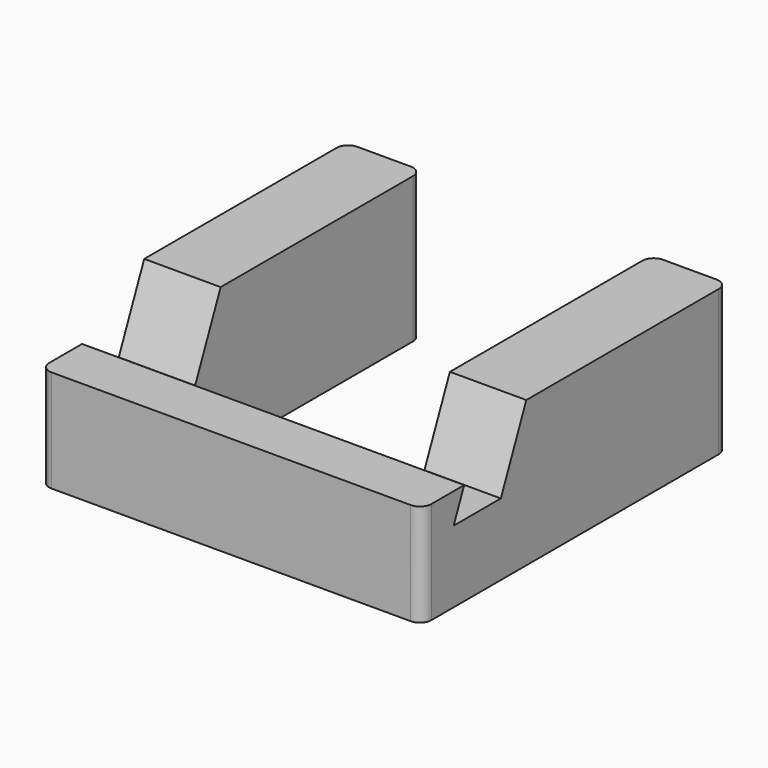
from build123d import *

# Parameters (mm, degrees)
F1_DEPTH = 38.09291
F3_DEPTH = 122.48907
F6_W     = 30.103382
F6_H     = 15.981055
F7_DEPTH = 76.09144


with BuildPart() as f1:
    # F0 (on Top) → F1 (new body)
    with BuildSketch(Plane.XY):
        with BuildLine():
            Line((-47.8804, 57.96845), (-61.8804, 57.96845))
            ThreePointArc((-61.8804, 57.96845), (-64.00172, 57.089771), (-64.8804, 54.96845))
            Line((-64.8804, 54.96845), (-64.8804, -39.03155))
            ThreePointArc((-64.8804, -39.03155), (-64.00172, -41.15287), (-61.8804, -42.03155))
            Line((-61.8804, -42.03155), (32.1196, -42.03155))
            ThreePointArc((32.1196, -42.03155), (34.240921, -41.15287), (35.1196, -39.03155))
            Line((35.1196, -39.03155), (35.1196, 54.96845))
            ThreePointArc((35.1196, 54.96845), (34.240921, 57.089771), (32.1196, 57.96845))
            Line((32.1196, 57.96845), (18.1196, 57.96845))
            ThreePointArc((18.1196, 57.96845), (15.99828, 57.089771), (15.1196, 54.96845))
            Line((15.1196, 54.96845), (15.1196, -22.569584))
            Line((15.1196, -22.569584), (-44.8804, -22.569584))
            Line((-44.8804, -22.569584), (-44.8804, 54.96845))
            ThreePointArc((-44.8804, 54.96845), (-45.759079, 57.089771), (-47.8804, 57.96845))
        make_face()
    extrude(amount=F1_DEPTH)


with BuildPart() as f3:
    # F2 (on Right) → F3 (new body)
    with BuildSketch(Plane.YZ):
        Polygon((-71.411475, 51.98656), (-86.8368, 51.98656), (-102.24022, 16.366137), (-86.814895, 16.366137), align=None)
    extrude(amount=F3_DEPTH)


with BuildPart() as f3_1:
    # F4: moved
    add(f3.part.moved(Location((-76.72278, 70.50282, 2.4462))))


with BuildPart() as f1_1:
    add(f1.part)

    # F5: cut F3
    add(f3_1.part, mode=Mode.SUBTRACT)


with BuildPart() as f7:
    # F6 (on Right) → F7 (new body, symmetric)
    with BuildSketch(Plane.YZ):
        with Locations((-78.402916, 34.753974)):
            Rectangle(F6_W, F6_H)
    extrude(amount=F7_DEPTH, both=True)


with BuildPart() as f7_1:
    # F8: moved
    add(f7.part.moved(Location((0, 44.64814, 0))))


with BuildPart() as f1_2:
    add(f1_1.part)

    # F9: cut F7
    add(f7_1.part, mode=Mode.SUBTRACT)


solid = f1_2.part
